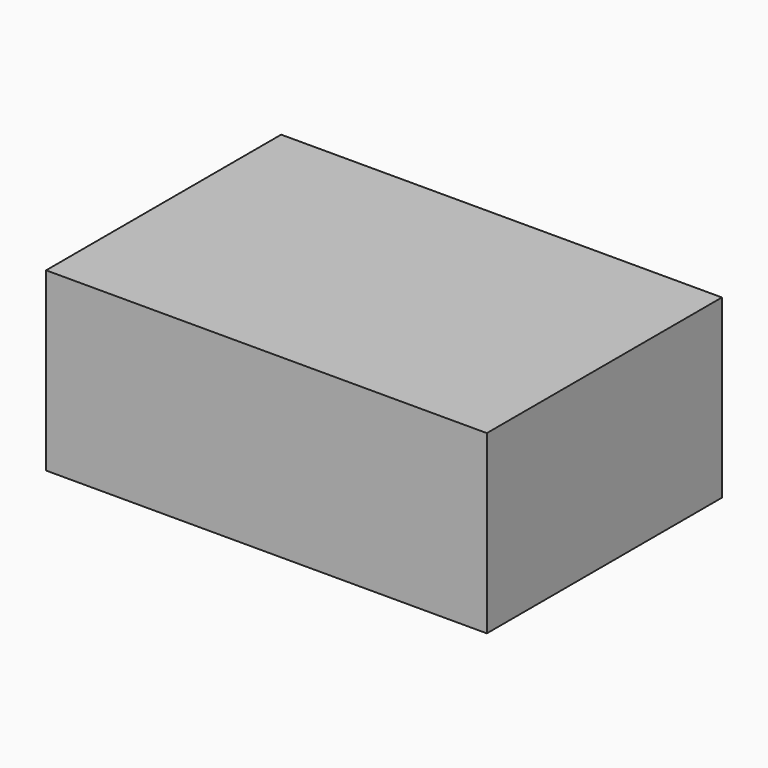
from build123d import *

# Parameters (mm, degrees)
F0_W     = 24
F0_H     = 16
F1_DEPTH = 9.6
F2_R     = 2.4
F3_DEPTH = 1.8


with BuildPart() as f1:
    # F0 (on Top) → F1 (new body)
    with BuildSketch(Plane.XY):
        with Locations((-12, 8)):
            Rectangle(F0_W, F0_H)
    extrude(amount=F1_DEPTH)


with BuildPart() as f3:
    # F2 (on Top) → F3 (new body)
    with BuildSketch(Plane.XY):
        with Locations((-4, 12.153973)):
            Circle(F2_R)
        with Locations((-12.05536, 12.153973)):
            Circle(F2_R)
        with Locations((-20.066822, 12.10175)):
            Circle(F2_R)
        with Locations((-20.066822, 4.142956)):
            Circle(F2_R)
        with Locations((-12.05536, 4.090733)):
            Circle(F2_R)
        with Locations((-4, 4.090733)):
            Circle(F2_R)
    extrude(amount=F3_DEPTH)


solid = Compound([f1.part, f3.part])
